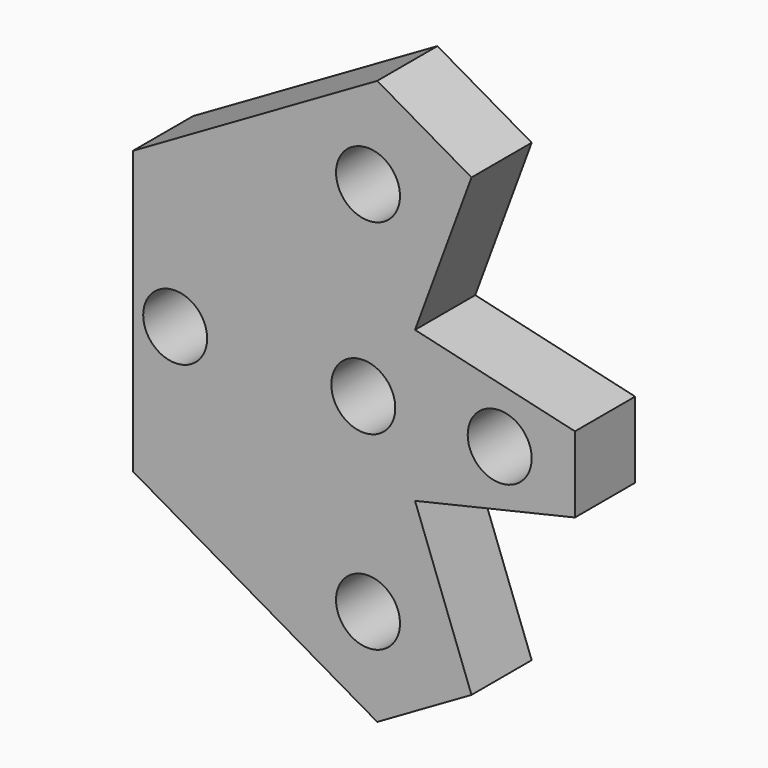
from build123d import *

# Parameters (mm, degrees)
SKETCH122_R       = 3
PAD096_DEPTH      = 2.5
PAD096_DEPTH_BACK = 100
SKETCH096_R       = 1.7
PAD073_DEPTH      = 4


with BuildPart() as countersink:
    # Sketch122 → Pad096 (new body, two sides)
    with BuildSketch(Plane.XZ.offset(-26)) as pad096_sk:
        with Locations((-18.75, 0)):
            Circle(SKETCH122_R)
        with Locations((-28.75, 0)):
            Circle(SKETCH122_R)
    extrude(amount=PAD096_DEPTH)
    extrude(pad096_sk.sketch, amount=-PAD096_DEPTH_BACK)


with BuildPart() as differentialmountadapter:
    # Sketch096 → Pad073 (new body)
    with BuildSketch(Plane.XZ.offset(-20)):
        Polygon((-16.5, 7.5), (-29.490381, 15), (-34.5, 12.107695), (-31.5, 4), (-40, 2.016667), (-40, -2.016667), (-31.5, -4), (-34.5, -12.107695), (-29.490381, -15), (-16.5, -7.5), align=None)
        with Locations((-18.75, 0)):
            Circle(SKETCH096_R, mode=Mode.SUBTRACT)
        with Locations((-28.75, 0)):
            Circle(SKETCH096_R, mode=Mode.SUBTRACT)
        with Locations((-29, 10)):
            Circle(SKETCH096_R, mode=Mode.SUBTRACT)
        with Locations((-29, -10)):
            Circle(SKETCH096_R, mode=Mode.SUBTRACT)
        with Locations((-36, 0)):
            Circle(SKETCH096_R, mode=Mode.SUBTRACT)
    extrude(amount=-PAD073_DEPTH)

    # Cut007019007: cut Countersink
    add(countersink.part, mode=Mode.SUBTRACT)


with BuildPart() as part_mirroring005:
    # Part__Mirroring005: instance of DifferentialMountAdapter
    add(differentialmountadapter.part.mirror(Plane(origin=(0, 0, 0), x_dir=(0, -1, 0), z_dir=(1, 0, 0))))


solid = part_mirroring005.part
